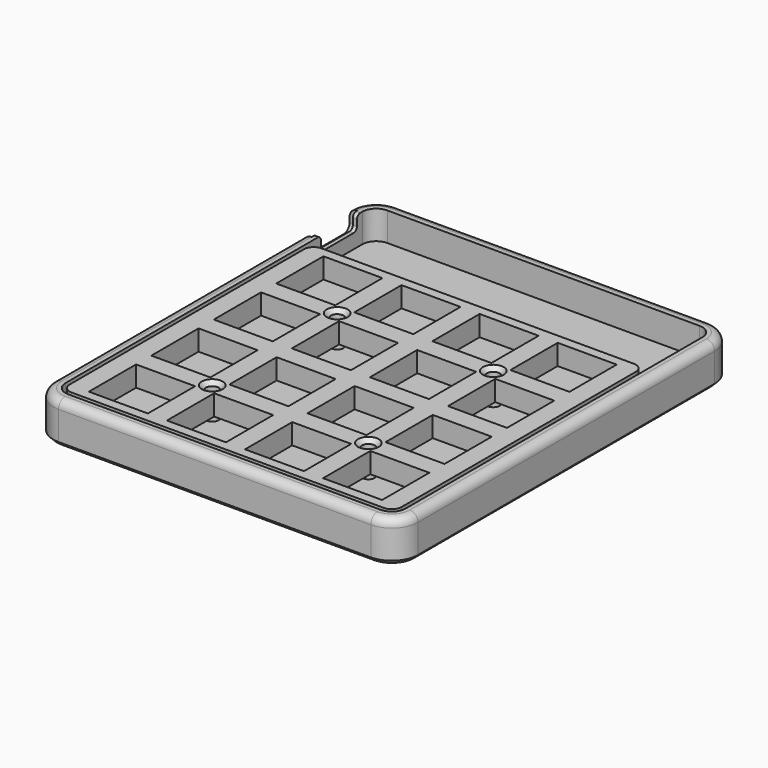
from build123d import *

# Parameters (mm, degrees)
SKETCH_W        = 80.9625
SKETCH_H        = 76.2
SKETCH_R        = 1.55
SKETCH_W_2      = 14.4
SKETCH_H_2      = 14.4
PAD_DEPTH       = 5
CHAMFER_SIZE    = 1
FILLET_R        = 2.38125
SKETCH001_W     = 88.9625
SKETCH001_H     = 103.25
PAD001_DEPTH    = 10
SKETCH002_W     = 82.9625
SKETCH002_H     = 97.25
POCKET_DEPTH    = 7
SKETCH003_R     = 1.55
POCKET001_DEPTH = 10.001
FILLET001_R     = 3.38125
FILLET002_R     = 6.38125
FILLET003_R     = 2
SKETCH004_R     = 3.5
POCKET002_DEPTH = 1
POCKET003_DEPTH = 5
POCKET004_DEPTH = 2
FILLET004_R     = 1
CHAMFER001_SIZE = 1


with BuildPart() as plate:
    # Sketch → Pad (new body)
    with BuildSketch(Plane.XY):
        with Locations((40.48125, 38.1)):
            Rectangle(SKETCH_W, SKETCH_H)
        with Locations((59.53125, 19.05)):
            Circle(SKETCH_R, mode=Mode.SUBTRACT)
        with Locations((21.43125, 19.05)):
            Circle(SKETCH_R, mode=Mode.SUBTRACT)
        with Locations((21.43125, 57.15)):
            Circle(SKETCH_R, mode=Mode.SUBTRACT)
        with Locations((59.53125, 57.15)):
            Circle(SKETCH_R, mode=Mode.SUBTRACT)
        with Locations((11.90625, 9.525)):
            Rectangle(SKETCH_W_2, SKETCH_H_2, mode=Mode.SUBTRACT)
        with Locations((30.95625, 9.525)):
            Rectangle(SKETCH_W_2, SKETCH_H_2, mode=Mode.SUBTRACT)
        with Locations((50.00625, 9.525)):
            Rectangle(SKETCH_W_2, SKETCH_H_2, mode=Mode.SUBTRACT)
        with Locations((69.05625, 9.525)):
            Rectangle(SKETCH_W_2, SKETCH_H_2, mode=Mode.SUBTRACT)
        with Locations((11.90625, 28.575)):
            Rectangle(SKETCH_W_2, SKETCH_H_2, mode=Mode.SUBTRACT)
        with Locations((30.95625, 28.575)):
            Rectangle(SKETCH_W_2, SKETCH_H_2, mode=Mode.SUBTRACT)
        with Locations((50.00625, 28.575)):
            Rectangle(SKETCH_W_2, SKETCH_H_2, mode=Mode.SUBTRACT)
        with Locations((69.05625, 28.575)):
            Rectangle(SKETCH_W_2, SKETCH_H_2, mode=Mode.SUBTRACT)
        with Locations((11.90625, 47.625)):
            Rectangle(SKETCH_W_2, SKETCH_H_2, mode=Mode.SUBTRACT)
        with Locations((30.95625, 47.625)):
            Rectangle(SKETCH_W_2, SKETCH_H_2, mode=Mode.SUBTRACT)
        with Locations((50.00625, 47.625)):
            Rectangle(SKETCH_W_2, SKETCH_H_2, mode=Mode.SUBTRACT)
        with Locations((69.05625, 47.625)):
            Rectangle(SKETCH_W_2, SKETCH_H_2, mode=Mode.SUBTRACT)
        with Locations((11.90625, 66.675)):
            Rectangle(SKETCH_W_2, SKETCH_H_2, mode=Mode.SUBTRACT)
        with Locations((30.95625, 66.675)):
            Rectangle(SKETCH_W_2, SKETCH_H_2, mode=Mode.SUBTRACT)
        with Locations((50.00625, 66.675)):
            Rectangle(SKETCH_W_2, SKETCH_H_2, mode=Mode.SUBTRACT)
        with Locations((69.05625, 66.675)):
            Rectangle(SKETCH_W_2, SKETCH_H_2, mode=Mode.SUBTRACT)
    extrude(amount=PAD_DEPTH)

    # Chamfer
    chamfer_edges = [plate.edges().sort_by_distance(p)[0] for p in [
        (57.98125, 57.15, 5),
        (57.98125, 19.05, 5),
        (19.88125, 19.05, 5),
        (19.88125, 57.15, 5),
        (19.88125, 57.15, 0),
        (57.98125, 57.15, 0),
        (57.98125, 19.05, 0),
        (19.88125, 19.05, 0),
    ]]
    chamfer(chamfer_edges, length=CHAMFER_SIZE)

    # Fillet
    fillet_edges = [plate.edges().sort_by_distance(p)[0] for p in [
        (0, 0, 2.5),
        (80.9625, 0, 2.5),
        (80.9625, 76.2, 2.5),
        (0, 76.2, 2.5),
    ]]
    fillet(fillet_edges, radius=FILLET_R)


with BuildPart() as plate_1:
    # Body placement: moved
    add(plate.part.moved(Location((4, 4, 5))))


with BuildPart() as body001:
    # Sketch001 → Pad001 (new body)
    with BuildSketch(Plane.XY):
        with Locations((44.48125, 51.625)):
            Rectangle(SKETCH001_W, SKETCH001_H)
    extrude(amount=PAD001_DEPTH)

    # Sketch002 (on Face6 of Pad001) → Pocket (cut)
    with BuildSketch(Plane.XY.offset(10)):
        with Locations((44.48125, 51.625)):
            Rectangle(SKETCH002_W, SKETCH002_H)
    extrude(amount=-POCKET_DEPTH, mode=Mode.SUBTRACT)

    # Sketch003 (on Face4 of Pocket) → Pocket001 (cut, through all)
    with BuildSketch(Plane(origin=(0, 0, 0), x_dir=(1, 0, 0), z_dir=(0, 0, -1))):
        with Locations((25.43125, -23.05)):
            Circle(SKETCH003_R)
        with Locations((63.53125, -23.05)):
            Circle(SKETCH003_R)
        with Locations((63.53125, -61.15)):
            Circle(SKETCH003_R)
        with Locations((25.43125, -61.15)):
            Circle(SKETCH003_R)
    extrude(amount=-POCKET001_DEPTH, mode=Mode.SUBTRACT)

    # Fillet001
    fillet001_edges = [body001.edges().sort_by_distance(p)[0] for p in [
        (85.9625, 3, 6.5),
        (85.9625, 100.25, 6.5),
        (3, 100.25, 6.5),
        (3, 3, 6.5),
    ]]
    fillet(fillet001_edges, radius=FILLET001_R)

    # Fillet002
    fillet002_edges = [body001.edges().sort_by_distance(p)[0] for p in [
        (0, 0, 5),
        (88.9625, 0, 5),
        (88.9625, 103.25, 5),
        (0, 103.25, 5),
    ]]
    fillet(fillet002_edges, radius=FILLET002_R)

    # Fillet003
    fillet003_edges = [body001.edges().sort_by_distance(p)[0] for p in [
        (44.48125, 0, 10),
    ]]
    fillet(fillet003_edges, radius=FILLET003_R)

    # Sketch004 (on Face27 of Fillet003) → Pocket002 (cut)
    with BuildSketch(Plane(origin=(0, 0, 0), x_dir=(1, 0, 0), z_dir=(0, 0, -1))):
        with Locations((82.58125, -6.38125)):
            Circle(SKETCH004_R)
        with Locations((6.38125, -6.38125)):
            Circle(SKETCH004_R)
        with Locations((6.38125, -96.37125)):
            Circle(SKETCH004_R)
        with Locations((82.58125, -96.37125)):
            Circle(SKETCH004_R)
    extrude(amount=-POCKET002_DEPTH, mode=Mode.SUBTRACT)

    # Sketch005 (on Face21 of Pocket002) → Pocket003 (cut)
    with BuildSketch(Plane(origin=(0, 0, 0), x_dir=(0, -1, 0), z_dir=(-1, 0, 0))):
        with BuildLine():
            Line((-89.725, 6.5), (-85.225, 6.5))
            ThreePointArc((-85.225, 6.5), (-84.517893, 6.792893), (-84.225, 7.5))
            Line((-84.225, 7.5), (-84.225, 17.5))
            Line((-95.225, 17.5), (-84.225, 17.5))
            Line((-95.225, 7.5), (-95.225, 17.5))
            ThreePointArc((-95.225, 7.5), (-94.932107, 6.792893), (-94.225, 6.5))
            Line((-89.725, 6.5), (-94.225, 6.5))
        make_face()
    extrude(amount=-POCKET003_DEPTH, mode=Mode.SUBTRACT)

    # Sketch006 (on Face22 of Pocket003) → Pocket004 (cut)
    with BuildSketch(Plane(origin=(0, 0, 0), x_dir=(0, -1, 0), z_dir=(-1, 0, 0))):
        with BuildLine():
            Line((-89.725, 5), (-94.975, 5))
            ThreePointArc((-96.725, 6.75), (-96.212437, 5.512563), (-94.975, 5))
            Line((-96.725, 6.75), (-96.725, 16.75))
            Line((-96.725, 16.75), (-82.725, 16.75))
            Line((-82.725, 16.75), (-82.725, 6.75))
            ThreePointArc((-84.475, 5), (-83.237563, 5.512563), (-82.725, 6.75))
            Line((-89.725, 5), (-84.475, 5))
        make_face()
    extrude(amount=-POCKET004_DEPTH, mode=Mode.SUBTRACT)

    # Fillet004
    fillet004_edges = [body001.edges().sort_by_distance(p)[0] for p in [
        (2.5, 84.225, 10),
        (2.5, 95.225, 10),
    ]]
    fillet(fillet004_edges, radius=FILLET004_R)

    # Chamfer001
    chamfer001_edges = [body001.edges().sort_by_distance(p)[0] for p in [
        (0, 51.625, 0),
    ]]
    chamfer(chamfer001_edges, length=CHAMFER001_SIZE)


solid = Compound([plate_1.part, body001.part])
